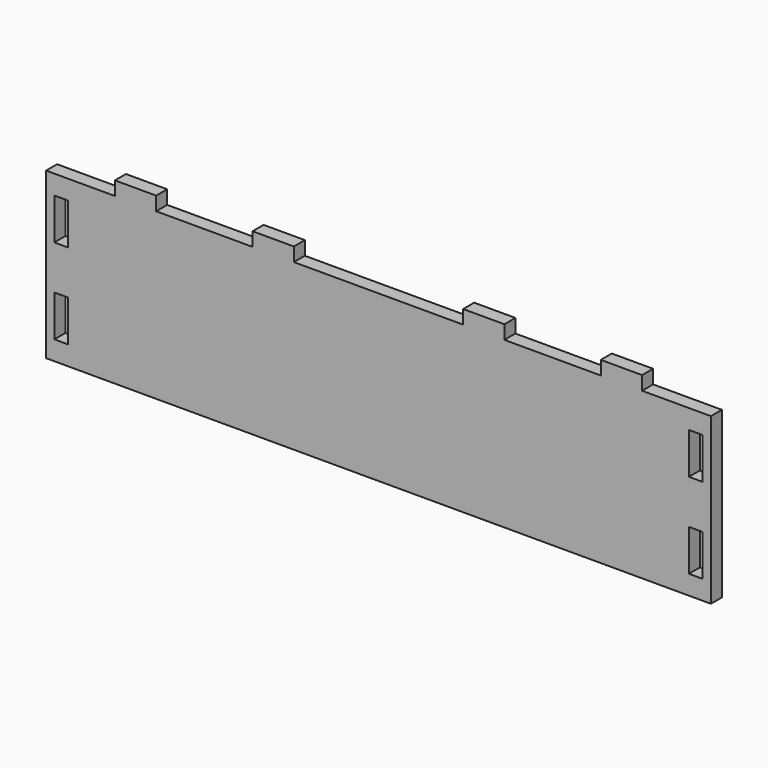
from build123d import *

# Parameters (mm, degrees)
F1_W     = 5
F1_H     = 15
F1_W_2   = 15
F1_H_2   = 5
F2_DEPTH = 5


with BuildPart() as f2:
    # F1 (on Front) → F2 (new body)
    with BuildSketch(Plane.XZ):
        Polygon((-120.75, -30), (120.75, -30), (120.75, 30), (95.75, 30), (80.75, 30), (45.75, 30), (30.75, 30), (-30.75, 30), (-30.75, 35), (-45.75, 35), (-45.75, 30), (-80.75, 30), (-80.75, 35), (-95.75, 35), (-95.75, 30), (-120.75, 30), align=None)
        with Locations((-115.25, -15.5)):
            Rectangle(F1_W, F1_H, mode=Mode.SUBTRACT)
        with Locations((115.25, -15.5)):
            Rectangle(F1_W, F1_H, mode=Mode.SUBTRACT)
        with Locations((-115.25, 15.5)):
            Rectangle(F1_W, F1_H, mode=Mode.SUBTRACT)
        with Locations((115.25, 15.5)):
            Rectangle(F1_W, F1_H, mode=Mode.SUBTRACT)
        with Locations((38.25, 32.5)):
            Rectangle(F1_W_2, F1_H_2)
        with Locations((88.25, 32.5)):
            Rectangle(F1_W_2, F1_H_2)
    extrude(amount=F2_DEPTH)


solid = f2.part
